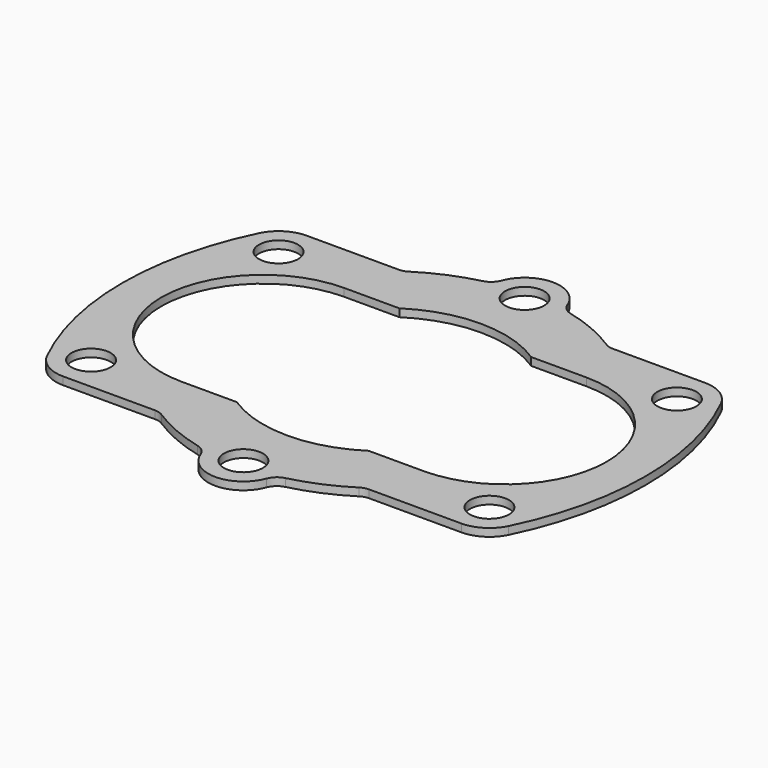
from build123d import *

# Parameters (mm, degrees)
F0_R     = 7.9375
F1_DEPTH = 3.175


with BuildPart() as f1:
    # F0 (on Top) → F1 (new body)
    with BuildSketch(Plane.XY):
        with BuildLine():
            Line((-43.533407, 61.9125), (-80.9625, 61.9125))
            ThreePointArc((-80.9625, 61.9125), (-88.505359, 59.759164), (-93.774579, 53.948235))
            ThreePointArc((-93.774579, 53.948235), (-106.3625, 0), (-93.774579, -53.948235))
            ThreePointArc((-93.774579, -53.948235), (-88.505359, -59.759164), (-80.9625, -61.9125))
            Line((-80.9625, -61.9125), (-43.533407, -61.9125))
            ThreePointArc((-43.533407, -61.9125), (-41.755051, -62.166604), (-40.119022, -62.908578))
            ThreePointArc((-40.119022, -62.908578), (-29.365201, -68.59089), (-17.831054, -72.450526))
            ThreePointArc((-17.831054, -72.450526), (-15.121491, -73.877949), (-13.395178, -76.407596))
            ThreePointArc((-13.395178, -76.407596), (0, -85.725), (13.395178, -76.407596))
            ThreePointArc((13.395178, -76.407596), (15.121491, -73.877949), (17.831054, -72.450526))
            ThreePointArc((17.831054, -72.450526), (29.365201, -68.59089), (40.119022, -62.908578))
            ThreePointArc((40.119022, -62.908578), (41.755051, -62.166604), (43.533407, -61.9125))
            Line((43.533407, -61.9125), (80.9625, -61.9125))
            ThreePointArc((80.9625, -61.9125), (88.505359, -59.759164), (93.774579, -53.948235))
            ThreePointArc((93.774579, -53.948235), (106.3625, 0), (93.774579, 53.948235))
            ThreePointArc((93.774579, 53.948235), (88.505359, 59.759164), (80.9625, 61.9125))
            Line((80.9625, 61.9125), (43.533407, 61.9125))
            ThreePointArc((43.533407, 61.9125), (41.755051, 62.166604), (40.119022, 62.908578))
            ThreePointArc((40.119022, 62.908578), (29.365201, 68.59089), (17.831054, 72.450526))
            ThreePointArc((17.831054, 72.450526), (15.121491, 73.877949), (13.395178, 76.407596))
            ThreePointArc((13.395178, 76.407596), (0, 85.725), (-13.395178, 76.407596))
            ThreePointArc((-13.395178, 76.407596), (-15.121491, 73.877949), (-17.831054, 72.450526))
            ThreePointArc((-17.831054, 72.450526), (-29.365201, 68.59089), (-40.119022, 62.908578))
            ThreePointArc((-40.119022, 62.908578), (-41.755051, 62.166604), (-43.533407, 61.9125))
        make_face()
        with Locations((-80.9625, -47.625)):
            Circle(F0_R, mode=Mode.SUBTRACT)
        with Locations((0, -71.4375)):
            Circle(F0_R, mode=Mode.SUBTRACT)
        with Locations((80.9625, -47.625)):
            Circle(F0_R, mode=Mode.SUBTRACT)
        with Locations((-80.9625, 47.625)):
            Circle(F0_R, mode=Mode.SUBTRACT)
        with BuildLine():
            ThreePointArc((26.800085, -41.275), (0, -49.2125), (-26.800085, -41.275))
            Line((-26.800085, -41.275), (-49.2125, -41.275))
            ThreePointArc((-49.2125, -41.275), (-90.4875, 0), (-49.2125, 41.275))
            Line((-49.2125, 41.275), (-26.800085, 41.275))
            ThreePointArc((-26.800085, 41.275), (0, 49.2125), (26.800085, 41.275))
            Line((26.800085, 41.275), (49.2125, 41.275))
            ThreePointArc((49.2125, 41.275), (90.4875, 0), (49.2125, -41.275))
            Line((49.2125, -41.275), (26.800085, -41.275))
        make_face(mode=Mode.SUBTRACT)
        with Locations((0, 71.4375)):
            Circle(F0_R, mode=Mode.SUBTRACT)
        with Locations((80.9625, 47.625)):
            Circle(F0_R, mode=Mode.SUBTRACT)
    extrude(amount=F1_DEPTH)


solid = f1.part
